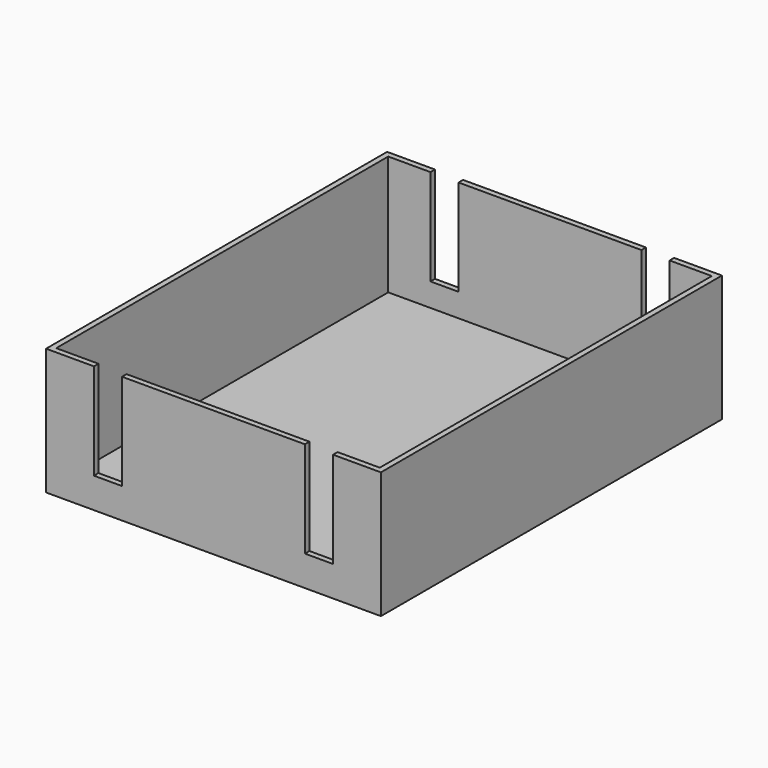
from build123d import *

# Parameters (mm, degrees)
F0_W     = 46
F0_H     = 59
F1_DEPTH = 1
F0_W_2   = 47.6
F0_H_2   = 60.6
F2_DEPTH = 18
F3_W     = 4
F3_H     = 13.6829850562
F4_DEPTH = 100


with BuildPart() as f1:
    # F0 (on Top) → F1 (new body)
    with BuildSketch(Plane.XY):
        Rectangle(F0_W, F0_H)
    extrude(amount=F1_DEPTH)

    # F0 (on Top) → F2 (join)
    with BuildSketch(Plane.XY):
        Rectangle(F0_W_2, F0_H_2)
        Rectangle(F0_W, F0_H, mode=Mode.SUBTRACT)
    extrude(amount=F2_DEPTH)

    # F3 (on face) → F4 (cut)
    with BuildSketch(Plane.XZ.offset(30.3)):
        with Locations((-15, 11.1585074719)):
            Rectangle(F3_W, F3_H)
        with Locations((15, 11.1585074719)):
            Rectangle(F3_W, F3_H)
    extrude(amount=-F4_DEPTH, mode=Mode.SUBTRACT)


solid = f1.part
